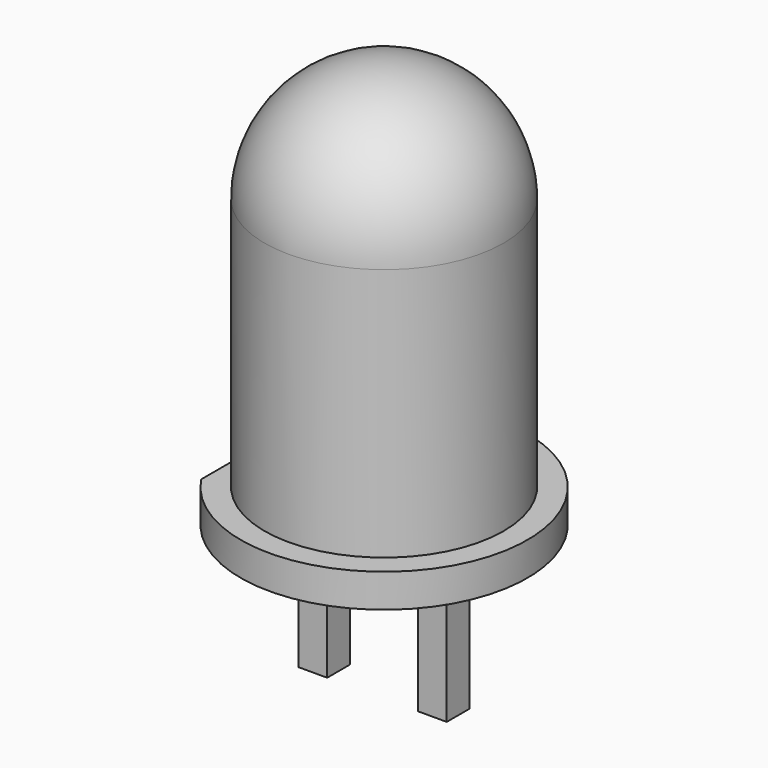
from build123d import *

# Parameters (mm, degrees)
F0_R     = 2.5
F1_DEPTH = 6
F5_DEPTH = 0.7
F6_W     = 0.6
F6_H     = 0.6
F7_DEPTH = 3


with BuildPart() as f1:
    # F0 (on Top) → F1 (new body)
    with BuildSketch(Plane.XY):
        Circle(F0_R)
    extrude(amount=F1_DEPTH)

    # F2 (on face) → F3 (revolve)
    with BuildSketch(Plane.XY.offset(6)):
        with BuildLine():
            ThreePointArc((0, 2.5), (-2.5, 0), (0, -2.5))
            Line((0, -2.5), (0, 2.5))
        make_face()
    revolve(axis=Axis((0, 0, 6), (0, 1, 0)))

    # F4 (on face) → F5 (join)
    with BuildSketch(Plane(origin=(0, 0, 0), x_dir=(1, 0, 0), z_dir=(0, 0, -1))):
        with BuildLine():
            Line((-2.5, 1.658312), (-2.5, -1.658312))
            ThreePointArc((-2.5, -1.658312), (3, 0), (-2.5, 1.658312))
        make_face()
    extrude(amount=-F5_DEPTH)

    # F6 (on face) → F7 (join)
    with BuildSketch(Plane(origin=(0, 0, 0), x_dir=(1, 0, 0), z_dir=(0, 0, -1))):
        with Locations((1.25, 0)):
            Rectangle(F6_W, F6_H)
        with Locations((-1.25, 0)):
            Rectangle(F6_W, F6_H)
    extrude(amount=F7_DEPTH)


solid = f1.part
